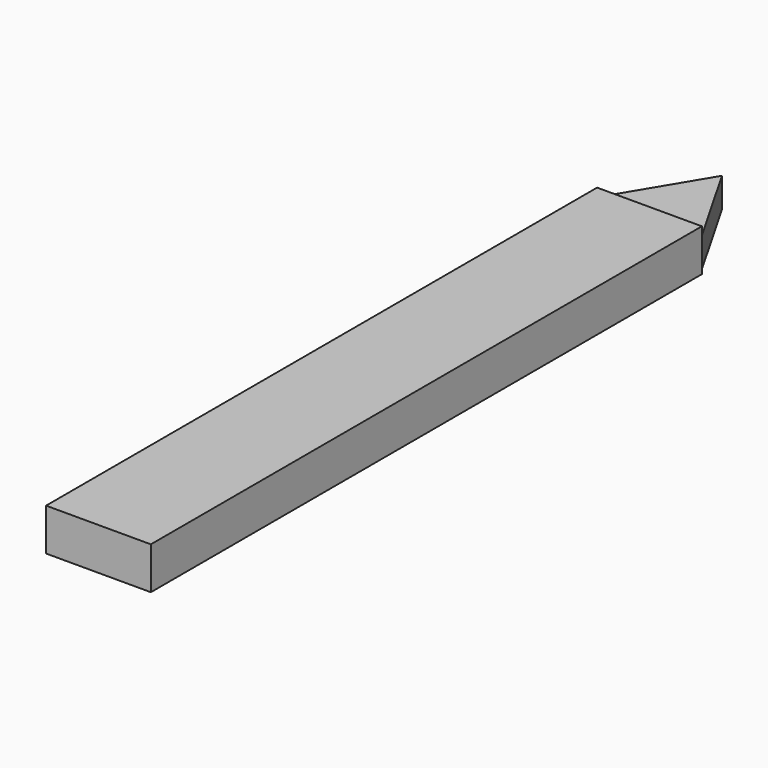
from build123d import *

# Parameters (mm, degrees)
F0_W      = 12.420304
F0_H      = 81.656884
F1_DEPTH  = 2.5
F2_DEPTH  = 1.5
F1_FACE_W = 12.420304
F1_FACE_H = 81.656884
F3_DEPTH  = 5
F4_DEPTH  = 2


with BuildPart() as f1:
    # F0 (on Top) → F1 (new body)
    with BuildSketch(Plane.XY):
        with Locations((-46.245806, 10.306211)):
            Rectangle(F0_W, F0_H)
    extrude(amount=F1_DEPTH)

    # F0 (on Top) → F2 (join)
    with BuildSketch(Plane.XY):
        Polygon((-46.113677, 61.70512), (-52.455958, 51.134653), (-40.035654, 51.134653), align=None)
    extrude(amount=F2_DEPTH)

    # F1_face (on face) → F3 (join)
    with BuildSketch(Plane(origin=(-46.245806, 10.306211, 2.5), x_dir=(1, 0, 0), z_dir=(0, 0, 1))):
        Rectangle(F1_FACE_W, F1_FACE_H)
    extrude(amount=-F3_DEPTH)

    # F0 (on Top) → F4 (join)
    with BuildSketch(Plane.XY):
        Polygon((-46.113677, 61.70512), (-52.455958, 51.134653), (-40.035654, 51.134653), align=None)
    extrude(amount=-F4_DEPTH)


solid = f1.part
